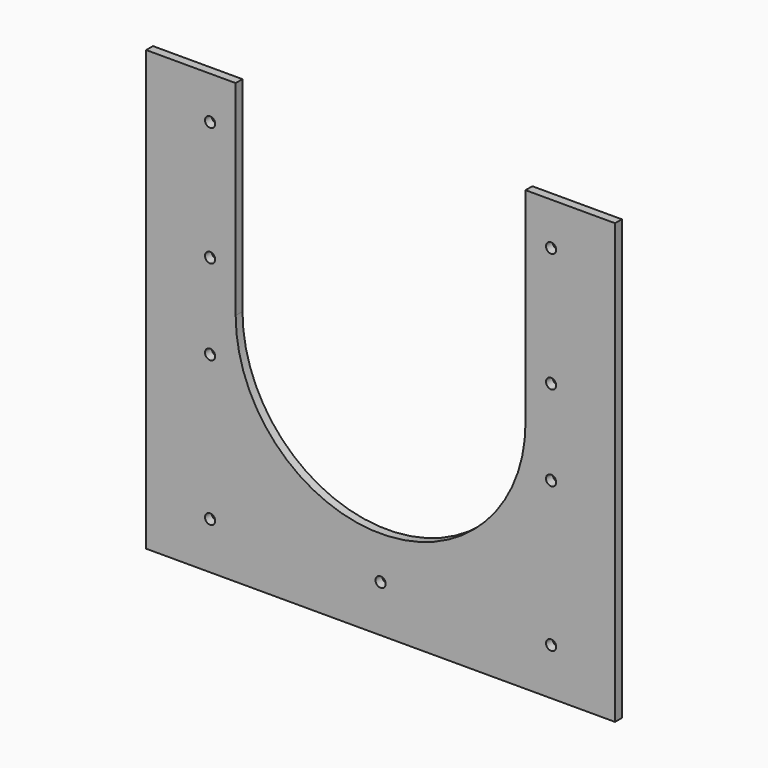
from build123d import *

# Parameters (mm, degrees)
SKETCH005_R      = 6
EXTRUDE004_DEPTH = 1000
EXTRUDE003_DEPTH = 1000
SKETCH003_W      = 550
SKETCH003_H      = 10
EXTRUDE002_DEPTH = 515


with BuildPart() as extrude004:
    # Sketch005 → Extrude004 (new body)
    with BuildSketch(Plane.XZ.offset(2500)):
        with Locations((-200, 1730)):
            Circle(SKETCH005_R)
        with Locations((-200, 1870)):
            Circle(SKETCH005_R)
        with Locations((200, 1870)):
            Circle(SKETCH005_R)
        with Locations((200, 1730)):
            Circle(SKETCH005_R)
        with Locations((-200, 1630)):
            Circle(SKETCH005_R)
        with Locations((-200, 1460)):
            Circle(SKETCH005_R)
        with Locations((200, 1630)):
            Circle(SKETCH005_R)
        with Locations((200, 1460)):
            Circle(SKETCH005_R)
        with Locations((0, 1460)):
            Circle(SKETCH005_R)
    extrude(amount=-EXTRUDE004_DEPTH)


with BuildPart() as extrude003:
    # Sketch004 → Extrude003 (new body)
    with BuildSketch(Plane.XZ.offset(2500)):
        with BuildLine():
            Line((-170, 1920), (-170, 1680))
            ThreePointArc((-170, 1680), (-4.8e-05, 1510), (170, 1679.999905))
            Line((170, 1679.999905), (170, 1920))
            Line((170, 1920), (-170, 1920))
        make_face()
    extrude(amount=-EXTRUDE003_DEPTH)


with BuildPart() as cut002:
    # Sketch003 → Extrude002 (new body)
    with BuildSketch(Plane.XY.offset(1405)):
        with Locations((0, -1520.580576)):
            Rectangle(SKETCH003_W, SKETCH003_H)
    extrude(amount=EXTRUDE002_DEPTH)

    # Cut001: cut Extrude003
    add(extrude003.part, mode=Mode.SUBTRACT)

    # Cut002: cut Extrude004
    add(extrude004.part, mode=Mode.SUBTRACT)


solid = cut002.part
